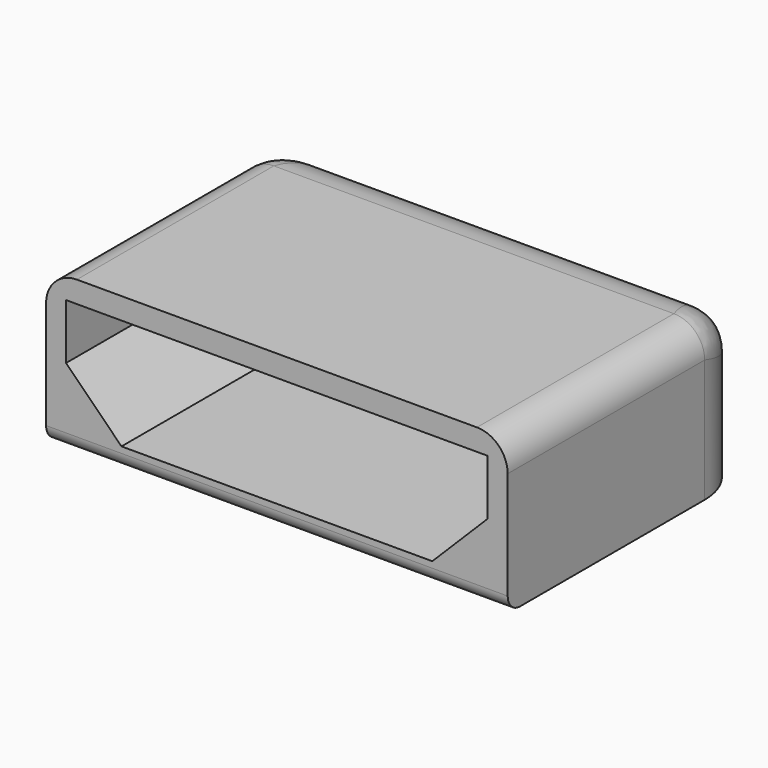
from build123d import *

# Parameters (mm, degrees)
SKETCH007_W     = 7.5
SKETCH007_H     = 5
PAD006_DEPTH    = 2.5
SKETCH008_W     = 6.85
SKETCH008_H     = 1.8
POCKET001_DEPTH = 4
FILLET_R        = 0.5
CHAMFER003_SIZE = 0.9
FILLET001_R     = 0.25
FILLET002_R     = 1


with BuildPart() as part:
    # Sketch007 (on Face1 of CopyPad003) → Pad006 (new body)
    with BuildSketch(Plane.XY.offset(1.6)):
        with Locations((0, -25.5)):
            Rectangle(SKETCH007_W, SKETCH007_H)
    extrude(amount=PAD006_DEPTH)

    # Sketch008 (on Face1 of Pad006) → Pocket001 (cut)
    with BuildSketch(Plane(origin=(0, -28, 1.6), x_dir=(1, 0, 0), z_dir=(0, -1, 0))):
        with Locations((0, 1.25)):
            Rectangle(SKETCH008_W, SKETCH008_H)
    extrude(amount=-POCKET001_DEPTH, mode=Mode.SUBTRACT)

    # Fillet
    fillet_edges = [part.edges().sort_by_distance(p)[0] for p in [
        (-3.75, -25.5, 4.1),
        (3.75, -25.5, 4.1),
    ]]
    fillet(fillet_edges, radius=FILLET_R)

    # Chamfer003
    chamfer003_edges = [part.edges().sort_by_distance(p)[0] for p in [
        (3.425, -26, 1.95),
        (-3.425, -26, 1.95),
    ]]
    chamfer(chamfer003_edges, length=CHAMFER003_SIZE)

    # Fillet001
    fillet001_edges = [part.edges().sort_by_distance(p)[0] for p in [
        (0, -28, 1.6),
    ]]
    fillet(fillet001_edges, radius=FILLET001_R)

    # Fillet002
    fillet002_edges = [part.edges().sort_by_distance(p)[0] for p in [
        (0, -23, 4.1),
    ]]
    fillet(fillet002_edges, radius=FILLET002_R)


with BuildPart() as part_1:
    # Body006 placement: moved
    add(part.part.moved(Location((0, 3, 0))))


solid = part_1.part
